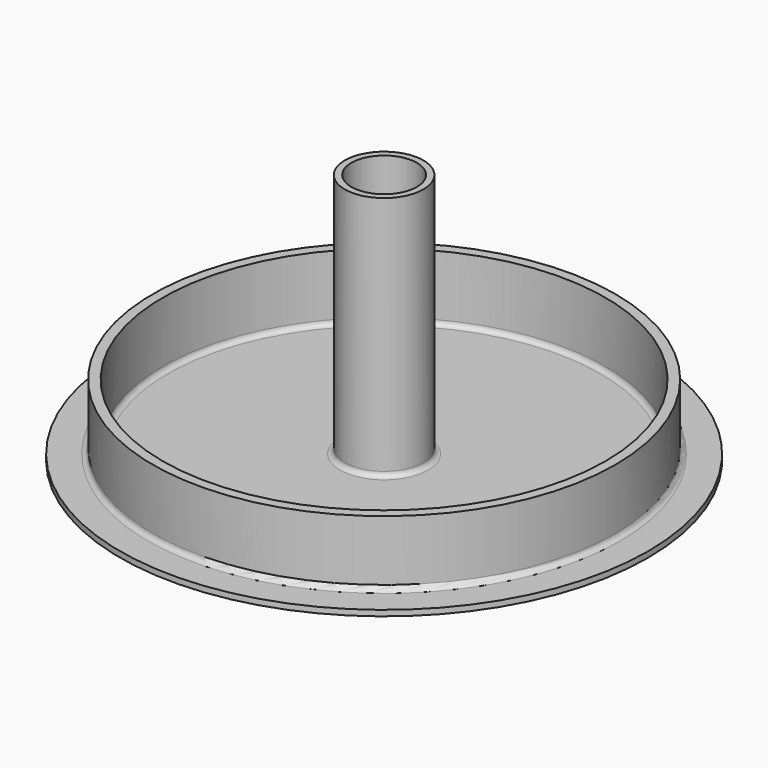
from build123d import *

# Parameters (mm, degrees)
F0_R     = 28.25
F0_R_2   = 27.05
F1_DEPTH = 8
F0_R_3   = 32.25
F0_R_4   = 4.8
F0_R_5   = 4
F2_DEPTH = 0.7
F3_DEPTH = 30
F4_R     = 0.6


with BuildPart() as f1:
    # F0 (on Top) → F1 (new body)
    with BuildSketch(Plane.XY):
        Circle(F0_R)
        Circle(F0_R_2, mode=Mode.SUBTRACT)
    extrude(amount=F1_DEPTH)

    # F0 (on Top) → F2 (join)
    with BuildSketch(Plane.XY):
        Circle(F0_R_3)
        Circle(F0_R, mode=Mode.SUBTRACT)
        Circle(F0_R)
        Circle(F0_R_2, mode=Mode.SUBTRACT)
        Circle(F0_R_2)
        Circle(F0_R_4, mode=Mode.SUBTRACT)
        Circle(F0_R_4)
        Circle(F0_R_5, mode=Mode.SUBTRACT)
    extrude(amount=-F2_DEPTH)

    # F0 (on Top) → F3 (join)
    with BuildSketch(Plane.XY):
        Circle(F0_R_4)
        Circle(F0_R_5, mode=Mode.SUBTRACT)
    extrude(amount=F3_DEPTH)

    # F4
    f4_edges = [f1.edges().sort_by_distance(p)[0] for p in [
        (-28.25, 0, 0),
        (-27.05, 0, 0),
        (-4.8, 0, 0),
    ]]
    fillet(f4_edges, radius=F4_R)


solid = f1.part
